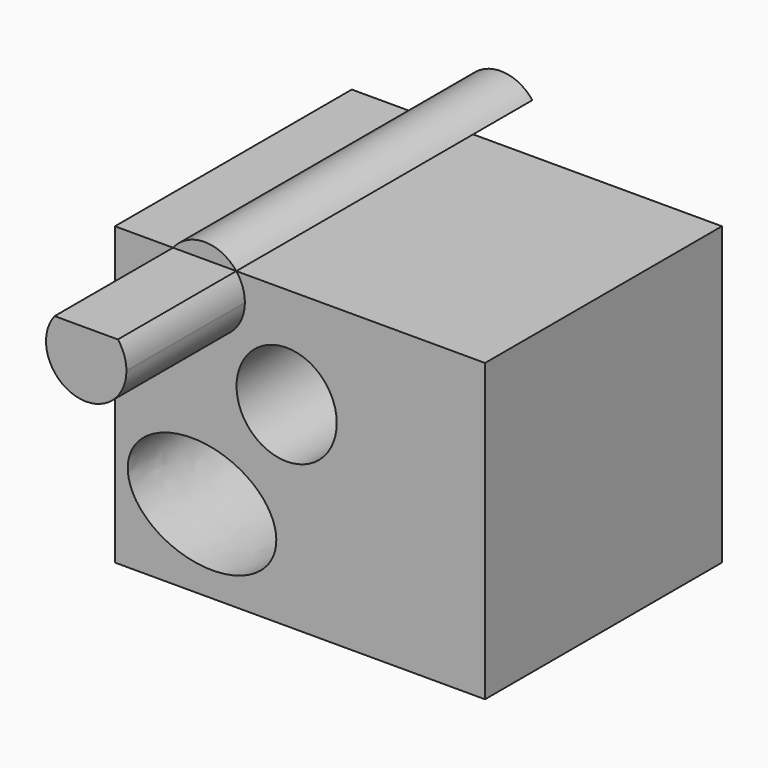
from build123d import *

# Parameters (mm, degrees)
F0_W     = 63.5
F0_H     = 50.8
F1_DEPTH = 50.8
F3_DEPTH = 25.4
F2_R     = 8.595476
F4_DEPTH = 50.8
F5_DEPTH = 25.4
F6_DEPTH = 63.5


with BuildPart() as f1:
    # F0 (on Front) → F1 (new body)
    with BuildSketch(Plane.XZ):
        with Locations((-20.03084, 37.970573)):
            Rectangle(F0_W, F0_H)
    extrude(amount=F1_DEPTH)

    # F2 (on face) → F3 (join)
    with BuildSketch(Plane.XZ.offset(50.8)):
        with BuildLine():
            ThreePointArc((-41.807558, 63.370573), (-38.637678, 52.590738), (-29.485771, 59.109601))
            ThreePointArc((-29.485771, 59.109601), (-29.86454, 61.363876), (-30.959248, 63.370573))
            Line((-30.959248, 63.370573), (-41.807558, 63.370573))
        make_face()
    extrude(amount=F3_DEPTH)

    # F2 (on face) → F4 (cut)
    with BuildSketch(Plane.XZ.offset(50.8)):
        with Locations((-22.318399, 46.015508)):
            Circle(F2_R)
    extrude(amount=-F4_DEPTH, mode=Mode.SUBTRACT)

    # F2 (on face) → F5 (cut)
    with BuildSketch(Plane.XZ.offset(50.8)):
        with BuildLine():
            add(Edge.make_bspline(
                [(-24.2441, 23.536226), (-20.845911, 39.181114), (-41.431697, 35.461002), (-62.017482, 31.740891), (-44.829885, 19.816114), (-27.642288, 7.891338), (-24.2441, 23.536226)],
                knots=[0, 0, 0, 2.094395, 2.094395, 4.18879, 4.18879, 6.283185, 6.283185, 6.283185], degree=2, weights=[1, 0.5, 1, 0.5, 1, 0.5, 1]))
        make_face()
    extrude(amount=-F5_DEPTH, mode=Mode.SUBTRACT)

    # F2 (on face) → F6 (join)
    with BuildSketch(Plane.XZ.offset(50.8)):
        with BuildLine():
            Line((-41.807558, 63.370573), (-30.959248, 63.370573))
            ThreePointArc((-30.959248, 63.370573), (-36.383403, 66.007234), (-41.807558, 63.370573))
        make_face()
    extrude(amount=-F6_DEPTH)


solid = f1.part
